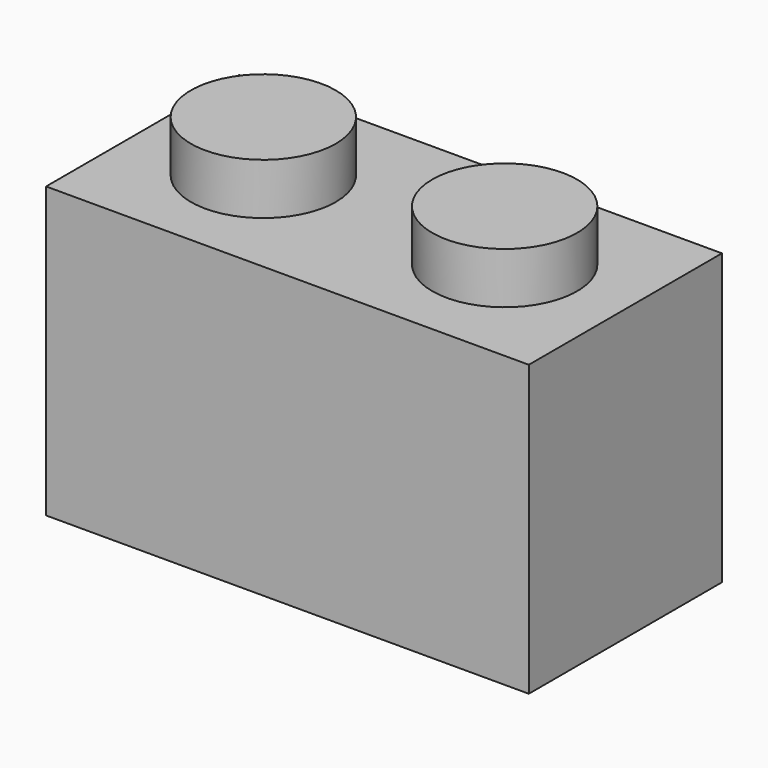
from build123d import *

# Parameters (mm, degrees)
F1_DEPTH = 8
F3_W     = 8
F3_H     = 8
F3_R     = 2.4
F4_DEPTH = 1.7
F5_R     = 2.4
F6_DEPTH = 1.7


with BuildPart() as f1:
    # F0 (on Front) → F1 (new body)
    with BuildSketch(Plane.XZ):
        Polygon((-2.4, 9.6), (-4, 9.6), (-4, 0), (4, 0), (4, 9.6), (2.4, 9.6), (2.4, 11.3), (-2.4, 11.3), align=None)
    extrude(amount=F1_DEPTH)

    # F3 (on plane+point) → F4 (cut, through all)
    with BuildSketch(Plane.XY.offset(11.3)):
        with Locations((0, -4)):
            Rectangle(F3_W, F3_H)
        with Locations((0, -4)):
            Circle(F3_R, mode=Mode.SUBTRACT)
    extrude(amount=-F4_DEPTH, mode=Mode.SUBTRACT)

    # F5 (on Top) → F6 (cut)
    with BuildSketch(Plane.XY):
        with Locations((0, -4)):
            Circle(F5_R)
    extrude(amount=F6_DEPTH, mode=Mode.SUBTRACT)

    # F8: F1 across plane


with BuildPart() as f1_1:
    add(f1.part)
    add(f1.part.mirror(Plane.YZ.offset(4)))


solid = f1_1.part
